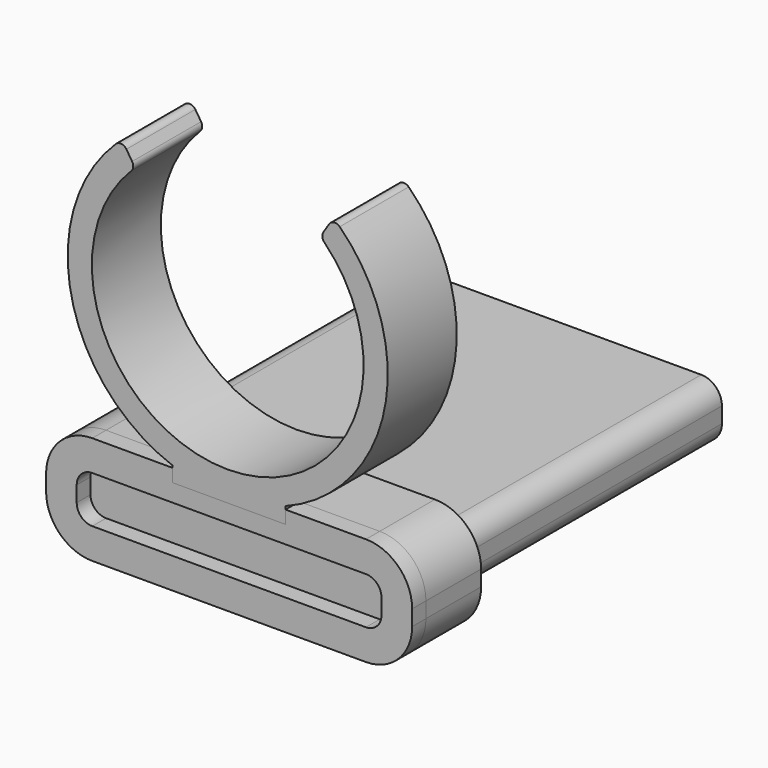
from build123d import *

# Parameters (mm, degrees)
F0_W     = 58
F0_H     = 74
F1_DEPTH = 10.5
F2_R     = 3.81
F4_DEPTH = 12.7
F6_DEPTH = 3.175
F8_DEPTH = 15.875


with BuildPart() as f1:
    # F0 (on Top) → F1 (new body)
    with BuildSketch(Plane.XY):
        with Locations((29, 37)):
            Rectangle(F0_W, F0_H)
    extrude(amount=F1_DEPTH)

    # F2
    f2_edges = [f1.edges().sort_by_distance(p)[0] for p in [
        (58, 37, 0),
        (58, 37, 10.5),
        (0, 37, 0),
        (0, 37, 10.5),
    ]]
    fillet(f2_edges, radius=F2_R)


with BuildPart() as f4:
    # F3 (on face) → F4 (new body)
    with BuildSketch(Plane.XZ):
        with BuildLine():
            Line((54.19, 15.199), (3.81, 15.199))
            ThreePointArc((3.81, 15.199), (-2.2067716011, 12.7067716011), (-4.699, 6.69))
            Line((-4.699, 6.69), (-4.699, 3.81))
            ThreePointArc((-4.699, 3.81), (-2.2067716011, -2.2067716011), (3.81, -4.699))
            Line((3.81, -4.699), (54.19, -4.699))
            ThreePointArc((54.19, -4.699), (60.2067716011, -2.2067716011), (62.699, 3.81))
            Line((62.699, 3.81), (62.699, 6.69))
            ThreePointArc((62.699, 6.69), (60.2067716011, 12.7067716011), (54.19, 15.199))
        make_face()
        with BuildLine():
            ThreePointArc((-0.254, 6.69), (0.9363180413, 9.5636819587), (3.81, 10.754))
            Line((3.81, 10.754), (54.19, 10.754))
            ThreePointArc((54.19, 10.754), (57.0636819587, 9.5636819587), (58.254, 6.69))
            Line((58.254, 6.69), (58.254, 3.81))
            ThreePointArc((58.254, 3.81), (57.0636819587, 0.9363180413), (54.19, -0.254))
            Line((54.19, -0.254), (3.81, -0.254))
            ThreePointArc((3.81, -0.254), (0.9363180413, 0.9363180413), (-0.254, 3.81))
            Line((-0.254, 3.81), (-0.254, 6.69))
        make_face(mode=Mode.SUBTRACT)
    extrude(amount=-F4_DEPTH)


with BuildPart() as f6:
    # F5 (on face) → F6 (new body)
    with BuildSketch(Plane.XZ):
        with BuildLine():
            ThreePointArc((62.699, 6.69), (60.2067716011, 12.7067716011), (54.19, 15.199))
            Line((54.19, 15.199), (3.81, 15.199))
            ThreePointArc((3.81, 15.199), (-2.2067716011, 12.7067716011), (-4.699, 6.69))
            Line((-4.699, 6.69), (-4.699, 3.81))
            ThreePointArc((-4.699, 3.81), (-2.2067716011, -2.2067716011), (3.81, -4.699))
            Line((3.81, -4.699), (54.19, -4.699))
            ThreePointArc((54.19, -4.699), (60.2067716011, -2.2067716011), (62.699, 3.81))
            Line((62.699, 3.81), (62.699, 6.69))
        make_face()
        with BuildLine():
            ThreePointArc((3.81, -0.254), (0.9363180413, 0.9363180413), (-0.254, 3.81))
            Line((-0.254, 3.81), (-0.254, 6.69))
            ThreePointArc((-0.254, 6.69), (0.9363180413, 9.5636819587), (3.81, 10.754))
            Line((3.81, 10.754), (54.19, 10.754))
            ThreePointArc((54.19, 10.754), (57.0636819587, 9.5636819587), (58.254, 6.69))
            Line((58.254, 6.69), (58.254, 3.81))
            ThreePointArc((58.254, 3.81), (57.0636819587, 0.9363180413), (54.19, -0.254))
            Line((54.19, -0.254), (3.81, -0.254))
        make_face(mode=Mode.SUBTRACT)
        with BuildLine():
            Line((-0.254, 6.69), (-0.254, 3.81))
            ThreePointArc((-0.254, 3.81), (0.9363180413, 0.9363180413), (3.81, -0.254))
            Line((3.81, -0.254), (54.19, -0.254))
            ThreePointArc((54.19, -0.254), (57.0636819587, 0.9363180413), (58.254, 3.81))
            Line((58.254, 3.81), (58.254, 6.69))
            ThreePointArc((58.254, 6.69), (57.0636819587, 9.5636819587), (54.19, 10.754))
            Line((54.19, 10.754), (3.81, 10.754))
            ThreePointArc((3.81, 10.754), (0.9363180413, 9.5636819587), (-0.254, 6.69))
        make_face()
        with BuildLine():
            Line((3.81, 9.5602003321), (54.19, 9.5602003321))
            ThreePointArc((54.19, 9.5602003321), (56.2195381182, 8.7195381182), (57.0602003321, 6.69))
            Line((57.0602003321, 6.69), (57.0602003321, 3.81))
            ThreePointArc((57.0602003321, 3.81), (56.2195381182, 1.7804618818), (54.19, 0.9397996679))
            Line((54.19, 0.9397996679), (3.81, 0.9397996679))
            ThreePointArc((3.81, 0.9397996679), (1.7804618818, 1.7804618818), (0.9397996679, 3.81))
            Line((0.9397996679, 3.81), (0.9397996679, 6.69))
            ThreePointArc((0.9397996679, 6.69), (1.7804618818, 8.7195381182), (3.81, 9.5602003321))
        make_face(mode=Mode.SUBTRACT)
    extrude(amount=F6_DEPTH)


with BuildPart() as f8:
    # F7 (on face) → F8 (new body)
    with BuildSketch(Plane.XZ.offset(3.175)):
        with BuildLine():
            ThreePointArc((46.5190580061, 60.858109749), (28.748975634, 18.2273379186), (10.9788907227, 60.8581086906))
            ThreePointArc((10.9788907227, 60.8581086906), (11.3400798422, 61.6210900026), (11.1431619079, 62.4419562461))
            Line((11.1431619079, 62.4419562461), (10.0855654762, 64.0766926394))
            ThreePointArc((10.0855654762, 64.0766926394), (9.1596065709, 64.6490649425), (8.1305336461, 64.2940735858))
            ThreePointArc((8.1305336461, 64.2940735858), (-0.0555666287, 37.0474925456), (18.6139133123, 15.5803330961))
            Line((18.6139133123, 15.5803330961), (18.6139133123, 17.4656958604))
            Line((18.6139133123, 17.4656958604), (39.3860866877, 17.4656958604))
            Line((39.3860866877, 17.4656958604), (39.3860866877, 15.7694540236))
            ThreePointArc((39.3860866877, 15.7694540236), (57.6087580673, 37.3099913236), (49.367414878, 64.2940748139))
            ThreePointArc((49.367414878, 64.2940748139), (48.3383419322, 64.6490661093), (47.4123830609, 64.076693751))
            Line((47.4123830609, 64.076693751), (46.3547867266, 62.4419572948))
            ThreePointArc((46.3547867266, 62.4419572948), (46.1578688412, 61.6210910396), (46.5190580061, 60.858109749))
        make_face()
        with BuildLine():
            Line((18.6139133123, 17.4656958604), (18.6139133123, 15.5803330961))
            ThreePointArc((18.6139133123, 15.5803330961), (29.0172197168, 13.7835590152), (39.3860866877, 15.7694540236))
            Line((39.3860866877, 15.7694540236), (39.3860866877, 17.4656958604))
            Line((39.3860866877, 17.4656958604), (18.6139133123, 17.4656958604))
        make_face()
        with BuildLine():
            ThreePointArc((39.3860866877, 15.7694540236), (29.0172197168, 13.7835590152), (18.6139133123, 15.5803330961))
            Line((18.6139133123, 15.5803330961), (18.6139133123, 12.800030257))
            Line((18.6139133123, 12.800030257), (39.3860866877, 12.800030257))
            Line((39.3860866877, 12.800030257), (39.3860866877, 15.7694540236))
        make_face()
    extrude(amount=-F8_DEPTH)


solid = Compound([f1.part, f4.part, f6.part, f8.part])
